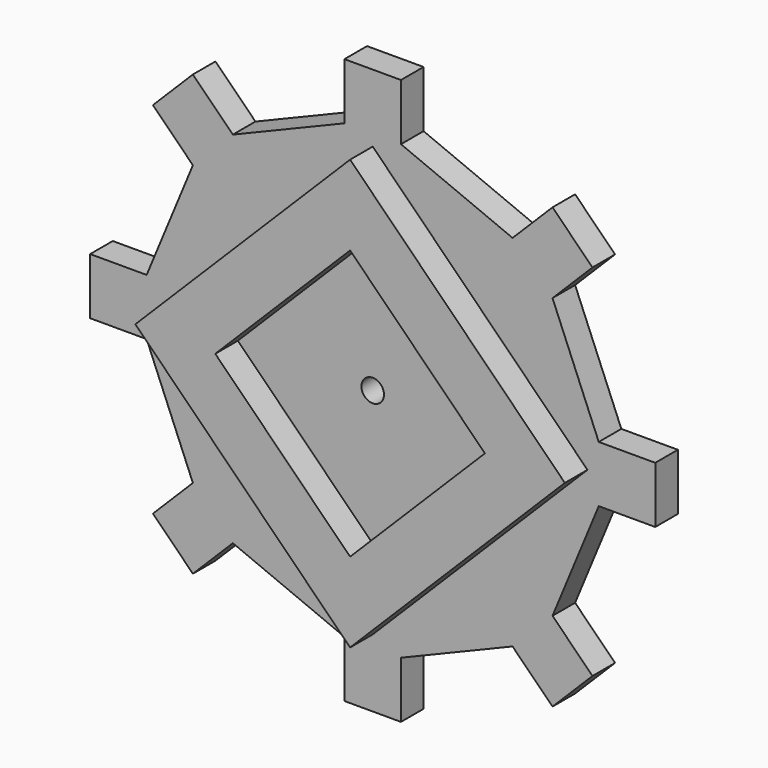
from build123d import *

# Parameters (mm, degrees)
F0_W     = 10
F0_H     = 10
F1_DEPTH = 5
F3_DEPTH = 5
F2_R     = 2
F4_DEPTH = 25


with BuildPart() as f1:
    # F0 (on Front) → F1 (new body)
    with BuildSketch(Plane.XZ):
        Polygon((-24.7487373415, -31.8198051534), (-5, -40), (-5, -12.0710678119), align=None)
        Polygon((-24.7487373415, 31.8198051534), (-5, 12.0710678119), (-5, 40), align=None)
        Polygon((5, 40), (5, 12.0710678119), (24.7487373415, 31.8198051534), align=None)
        Polygon((-31.8198051534, -38.8908729653), (-24.7487373415, -31.8198051534), (-31.8198051534, -24.7487373415), (-38.8908729653, -31.8198051534), align=None)
        Polygon((24.7487373415, 31.8198051534), (31.8198051534, 24.7487373415), (38.8908729653, 31.8198051534), (31.8198051534, 38.8908729653), align=None)
        Polygon((5, -12.0710678119), (5, -40), (24.7487373415, -31.8198051534), align=None)
        Polygon((31.8198051534, -24.7487373415), (24.7487373415, -31.8198051534), (31.8198051534, -38.8908729653), (38.8908729653, -31.8198051534), align=None)
        Polygon((-40, -5), (-31.8198051534, -24.7487373415), (-12.0710678119, -5), align=None)
        Polygon((-12.0710678119, 5), (-5, 5), (-5, 12.0710678119), (-24.7487373415, 31.8198051534), (-31.8198051534, 24.7487373415), align=None)
        Polygon((-38.8908729653, 31.8198051534), (-31.8198051534, 24.7487373415), (-24.7487373415, 31.8198051534), (-31.8198051534, 38.8908729653), align=None)
        Polygon((-31.8198051534, 24.7487373415), (-40, 5), (-12.0710678119, 5), align=None)
        with Locations((-45, 0)):
            Rectangle(F0_W, F0_H)
        Polygon((-12.0710678119, -5), (-5, -5), (-5, -2.0710678119), (-7.0710678119, 0), align=None)
        with Locations((45, 0)):
            Rectangle(F0_W, F0_H)
        Polygon((5, 2.0710678119), (5, -2.0710678119), (7.0710678119, 0), align=None)
        with Locations((0, 45)):
            Rectangle(F0_W, F0_H)
        Polygon((3.5355339059, -3.5355339059), (5, -2.0710678119), (5, 2.0710678119), (3.5355339059, 3.5355339059), (0, 0), align=None)
        Polygon((-5, -40), (5, -40), (5, -12.0710678119), (0, -7.0710678119), (-5, -12.0710678119), align=None)
        with Locations((0, -45)):
            Rectangle(F0_W, F0_H)
        Polygon((0, -7.0710678119), (5, -12.0710678119), (5, -5), (2.0710678119, -5), align=None)
        Polygon((7.0710678119, 0), (12.0710678119, -5), (40, -5), (40, 5), (12.0710678119, 5), align=None)
        Polygon((5, 5), (5, 2.0710678119), (7.0710678119, 0), (12.0710678119, 5), align=None)
        Polygon((5, -5), (5, -12.0710678119), (24.7487373415, -31.8198051534), (31.8198051534, -24.7487373415), (12.0710678119, -5), align=None)
        Polygon((-2.0710678119, -5), (0, -7.0710678119), (2.0710678119, -5), align=None)
        Polygon((5, 12.0710678119), (5, 5), (12.0710678119, 5), (31.8198051534, 24.7487373415), (24.7487373415, 31.8198051534), align=None)
        Polygon((-40, -5), (-12.0710678119, -5), (-7.0710678119, 0), (-12.0710678119, 5), (-40, 5), align=None)
        Polygon((-5, -5), (-5, -12.0710678119), (0, -7.0710678119), (-2.0710678119, -5), align=None)
        Polygon((5, -2.0710678119), (5, -5), (12.0710678119, -5), (7.0710678119, 0), align=None)
        Polygon((12.0710678119, -5), (31.8198051534, -24.7487373415), (40, -5), align=None)
        Polygon((12.0710678119, 5), (40, 5), (31.8198051534, 24.7487373415), align=None)
        Polygon((-2.0710678119, -5), (2.0710678119, -5), (3.5355339059, -3.5355339059), (0, 0), (-3.5355339059, -3.5355339059), align=None)
        Polygon((0, 7.0710678119), (5, 12.0710678119), (5, 40), (-5, 40), (-5, 12.0710678119), align=None)
        Polygon((-7.0710678119, 0), (-5, -2.0710678119), (-5, 2.0710678119), align=None)
        Polygon((-7.0710678119, 0), (-5, 2.0710678119), (-5, 5), (-12.0710678119, 5), align=None)
        Polygon((-2.0710678119, 5), (2.0710678119, 5), (0, 7.0710678119), align=None)
        Polygon((-5, 2.0710678119), (-5, -2.0710678119), (-3.5355339059, -3.5355339059), (0, 0), (-3.5355339059, 3.5355339059), align=None)
        Polygon((2.0710678119, 5), (5, 5), (5, 12.0710678119), (0, 7.0710678119), align=None)
        Polygon((-5, 12.0710678119), (-5, 5), (-2.0710678119, 5), (0, 7.0710678119), align=None)
        Polygon((-24.7487373415, -31.8198051534), (-5, -12.0710678119), (-5, -5), (-12.0710678119, -5), (-31.8198051534, -24.7487373415), align=None)
        Polygon((-3.5355339059, 3.5355339059), (0, 0), (3.5355339059, 3.5355339059), (2.0710678119, 5), (-2.0710678119, 5), align=None)
        Polygon((-5, 5), (-3.5355339059, 3.5355339059), (-2.0710678119, 5), align=None)
        Polygon((2.0710678119, -5), (5, -5), (3.5355339059, -3.5355339059), align=None)
        Polygon((-5, 5), (-5, 2.0710678119), (-3.5355339059, 3.5355339059), align=None)
        Polygon((3.5355339059, -3.5355339059), (5, -5), (5, -2.0710678119), align=None)
        Polygon((-3.5355339059, -3.5355339059), (-5, -5), (-2.0710678119, -5), align=None)
        Polygon((3.5355339059, 3.5355339059), (5, 2.0710678119), (5, 5), align=None)
        Polygon((3.5355339059, 3.5355339059), (5, 5), (2.0710678119, 5), align=None)
        Polygon((-5, -2.0710678119), (-5, -5), (-3.5355339059, -3.5355339059), align=None)
    extrude(amount=F1_DEPTH)

    # F2 (on face) → F3 (join)
    with BuildSketch(Plane.XZ.offset(5)):
        Polygon((-30.9289321881, -7.0710678119), (0, -38), (7.0710678119, -30.9289321881), (0, -23.8578643763), (-23.8578643763, 0), align=None)
        Polygon((-38, 0), (-30.9289321881, -7.0710678119), (-23.8578643763, 0), (0, 23.8578643763), (-7.0710678119, 30.9289321881), align=None)
        Polygon((0, -23.8578643763), (7.0710678119, -30.9289321881), (38, 0), (30.9289321881, 7.0710678119), (23.8578643763, 0), align=None)
        Polygon((0, 38), (-7.0710678119, 30.9289321881), (0, 23.8578643763), (23.8578643763, 0), (30.9289321881, 7.0710678119), align=None)
    extrude(amount=F3_DEPTH)

    # F2 (on face) → F4 (cut)
    with BuildSketch(Plane.XZ.offset(5)):
        Circle(F2_R)
    extrude(amount=-F4_DEPTH, mode=Mode.SUBTRACT)


solid = f1.part
